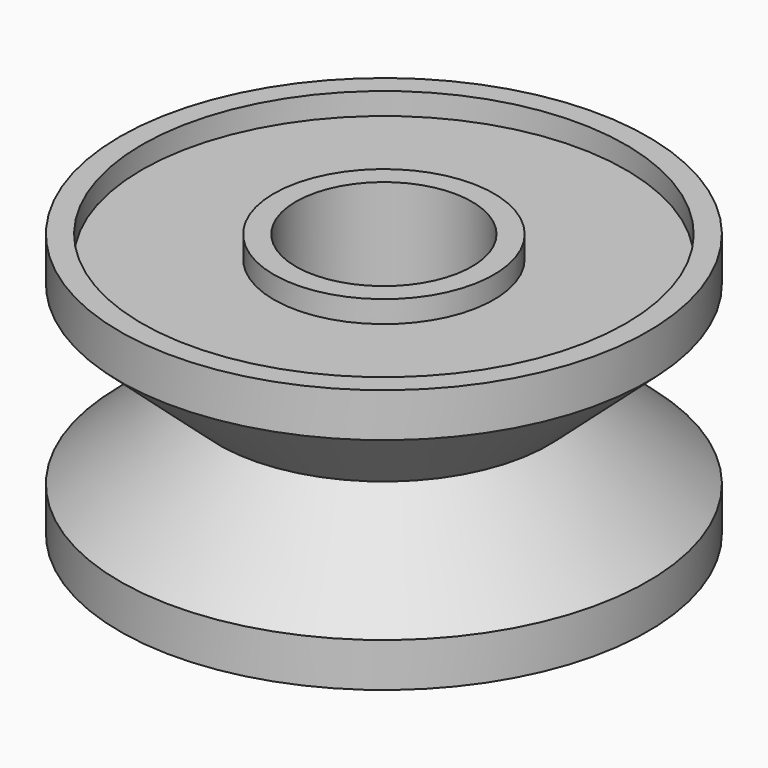
from build123d import *


with BuildPart() as f1:
    # F0 (on Front) → F1 (revolve)
    with BuildSketch(Plane.XZ):
        Polygon((-6, 6), (-6, 5), (-3.75, 3), (-6, 1), (-6, 0), (-5.5, 0), (-5.5, 0.5), (-2.5, 0.5), (-2.5, 0), (-2, 0), (-2, 3), (-2, 6), (-2.5, 6), (-2.5, 5.5), (-5.5, 5.5), (-5.5, 6), align=None)
    revolve(axis=Axis((0, 0, 3), (0, 0, -1)))


solid = f1.part
